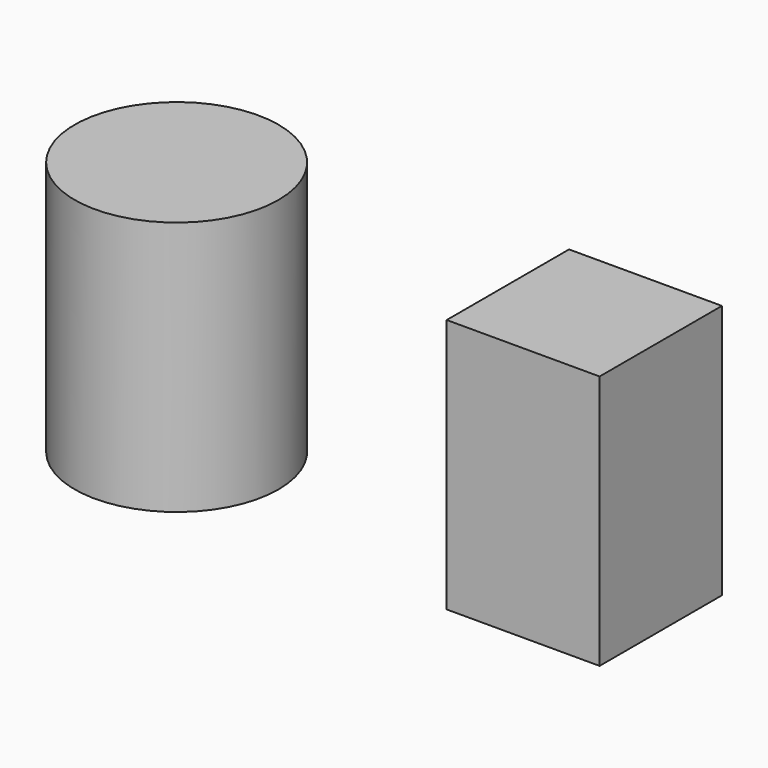
from build123d import *

# Parameters (mm, degrees)
F0_R     = 12.7
F0_W     = 19.05
F0_H     = 19.05
F1_DEPTH = 31.75


with BuildPart() as f1:
    # F0 (on Top) → F1 (new body)
    with BuildSketch(Plane.XY):
        with Locations((-82.55, 0)):
            Circle(F0_R)
        with Locations((-31.75, 0)):
            Rectangle(F0_W, F0_H)
    extrude(amount=-F1_DEPTH)


solid = f1.part
